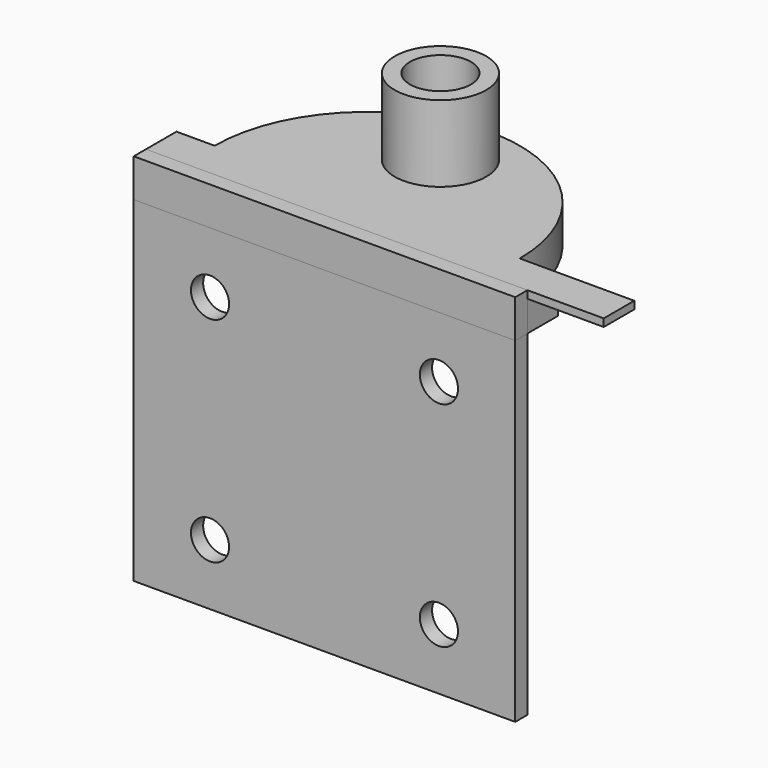
from build123d import *

# Parameters (mm, degrees)
F0_W       = 50
F0_H       = 44
F0_R       = 2.5
F1_DEPTH   = 2
F1_FACE1_W = 50
F1_FACE1_H = 2
F2_R       = 6
F3_DEPTH   = 5
F4_DEPTH   = 5
F5_R       = 6
F5_R_2     = 4
F6_DEPTH   = 15
F7_W       = 5
F7_H       = 4
F8_DEPTH   = 10


with BuildPart() as f1:
    # F0 (on Front) → F1 (new body)
    with BuildSketch(Plane.XZ):
        Rectangle(F0_W, F0_H)
        with Locations((-15, -14)):
            Circle(F0_R, mode=Mode.SUBTRACT)
        with Locations((15, -14)):
            Circle(F0_R, mode=Mode.SUBTRACT)
        with Locations((-15, 14)):
            Circle(F0_R, mode=Mode.SUBTRACT)
        with Locations((15, 14)):
            Circle(F0_R, mode=Mode.SUBTRACT)
    extrude(amount=F1_DEPTH)

    # F1_face1 (on face) + F2 (on face) → F3 (join)
    with BuildSketch(Plane(origin=(0, -1, -22), x_dir=(1, 0, 0), z_dir=(0, 0, -1))):
        Rectangle(F1_FACE1_W, F1_FACE1_H)
    with BuildSketch(Plane.XY.offset(22)):
        Polygon((-25, 5), (-25, 0), (25, 0), (35, 0), (35, 5), (20, 5), (-20, 5), align=None)
        with BuildLine():
            ThreePointArc((20, 5), (0, 25), (-20, 5))
            Line((-20, 5), (20, 5))
        make_face()
        with Locations((0, 17)):
            Circle(F2_R, mode=Mode.SUBTRACT)
    extrude(amount=-F3_DEPTH, dir=(0, 0, -1))


with BuildPart() as f4:
    # F4 (new): a face of the model
    f4_faces = [f1.part.faces().sort_by_distance(p)[0] for p in [
        (0, -1, 22),
    ]]
    extrude(f4_faces, amount=F4_DEPTH)


with BuildPart() as f6:
    # F5 (on face) → F6 (new body)
    with BuildSketch(Plane(origin=(0, 0, 22), x_dir=(1, 0, 0), z_dir=(0, 0, -1))):
        with Locations((0, -17)):
            Circle(F5_R)
        with Locations((0, -17)):
            Circle(F5_R_2, mode=Mode.SUBTRACT)
    extrude(amount=-F6_DEPTH)


with BuildPart() as f1_1:
    add(f1.part)

    # F7 (on face) → F8 (cut)
    with BuildSketch(Plane.YZ.offset(35)):
        with Locations((2.5, 24)):
            Rectangle(F7_W, F7_H)
    extrude(amount=-F8_DEPTH, mode=Mode.SUBTRACT)


solid = Compound([f4.part, f6.part, f1_1.part])
